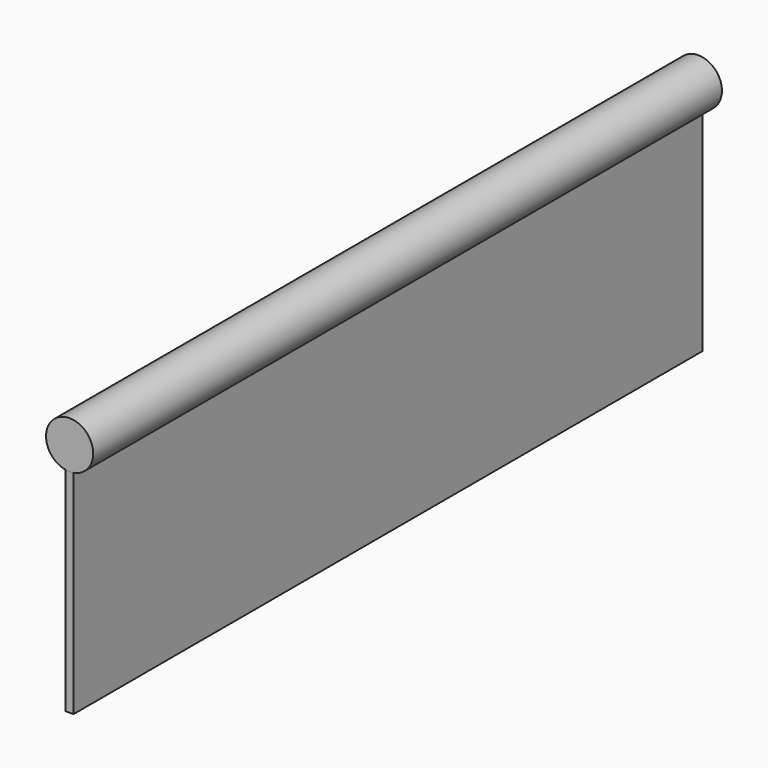
from build123d import *

# Parameters (mm, degrees)
F0_R     = 1.5
F1_DEPTH = 25
F3_DEPTH = 50


with BuildPart() as f1:
    # F0 (on Front) → F1 (new body, symmetric)
    with BuildSketch(Plane.XZ):
        with Locations((0, 35.599317)):
            Circle(F0_R)
    extrude(amount=F1_DEPTH, both=True)


with BuildPart() as f3:
    # F2 (on face) → F3 (new body)
    with BuildSketch(Plane.XZ.offset(25)):
        with BuildLine():
            Line((0.25, 20.599317), (0.25, 34.120297))
            ThreePointArc((0.25, 34.120297), (0, 34.099317), (-0.25, 34.120297))
            Line((-0.25, 34.120297), (-0.25, 20.599317))
            Line((-0.25, 20.599317), (0.25, 20.599317))
        make_face()
    extrude(amount=-F3_DEPTH)


solid = Compound([f1.part, f3.part])
